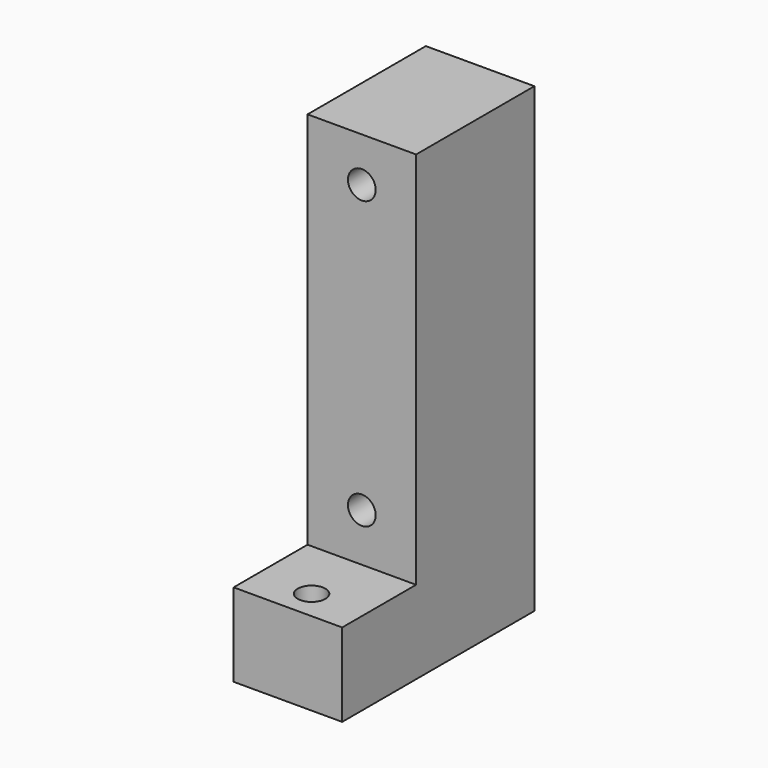
from build123d import *

# Parameters (mm, degrees)
F0_W     = 11.75
F0_H     = 50
F1_DEPTH = 16
F2_R     = 1.5
F3_DEPTH = 16.001
F4_W     = 11.75
F4_H     = 9
F5_DEPTH = 10
F6_R     = 1.5
F7_DEPTH = 9.001


with BuildPart() as f1:
    # F0 (on Front) → F1 (new body)
    with BuildSketch(Plane.XZ):
        Rectangle(F0_W, F0_H)
    extrude(amount=F1_DEPTH)

    # F2 (on face) → F3 (cut, through all)
    with BuildSketch(Plane.XZ.offset(16)):
        with Locations((0, 20.2)):
            Circle(F2_R)
        with Locations((0, -10.8)):
            Circle(F2_R)
    extrude(amount=-F3_DEPTH, mode=Mode.SUBTRACT)

    # F4 (on face) → F5 (join)
    with BuildSketch(Plane.XZ.offset(16)):
        with Locations((0, -20.5)):
            Rectangle(F4_W, F4_H)
    extrude(amount=F5_DEPTH)

    # F6 (on face) → F7 (cut, through all)
    with BuildSketch(Plane.XY.offset(-16)):
        with Locations((0, -22.8)):
            Circle(F6_R)
    extrude(amount=-F7_DEPTH, mode=Mode.SUBTRACT)


solid = f1.part
